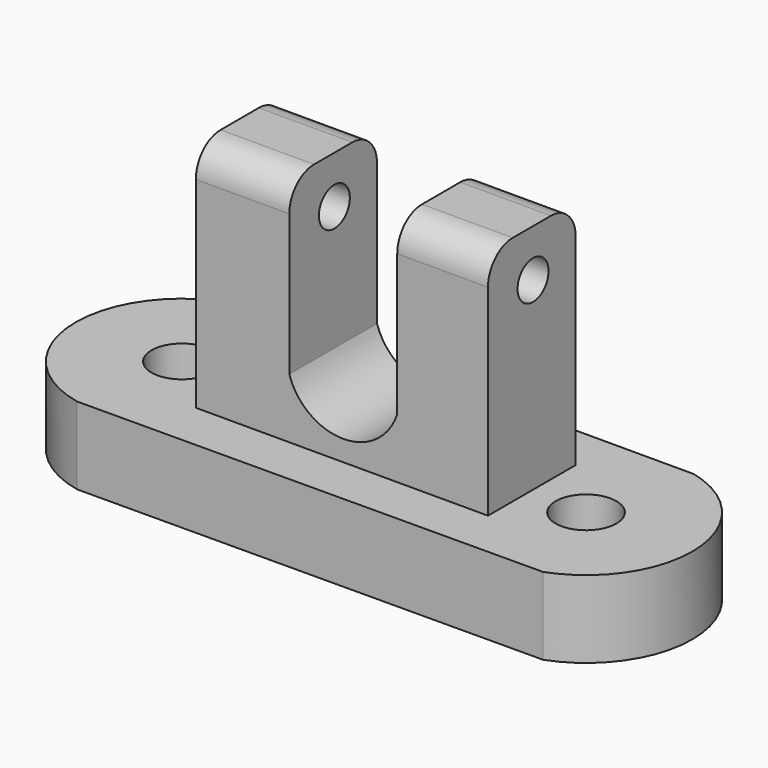
from build123d import *

# Parameters (mm, degrees)
F0_R     = 4.9836691613
F0_W     = 15.3446597978
F0_H     = 18.0084193125
F0_W_2   = 14.8993115872
F1_DEPTH = 12.7
F2_DEPTH = 50.8
F3_R     = 5.08
F6_D     = 6.35
F5_W     = 18.0084193125
F5_H     = 9.8407220423
F7_DEPTH = 17.78
F9_DEPTH = 25.4


with BuildPart() as f1:
    # F0 (on Top) → F1 (new body)
    with BuildSketch(Plane.XY):
        with BuildLine():
            Line((36.0745033145, 16.2670928985), (-40.1254966855, 16.2670928985))
            ThreePointArc((-40.1254966855, 16.2670928985), (-52.1476034559, -1.2861349798), (-38.2574259843, -17.4016501734))
            Line((-38.2574259843, -17.4016501734), (37.9416596259, -17.0283511457))
            ThreePointArc((37.9416596259, -17.0283511457), (49.3126119569, 0.3093896587), (36.0745033145, 16.2670928985))
        make_face()
        with Locations((31.8983709386, -0.6671736808)):
            Circle(F0_R, mode=Mode.SUBTRACT)
        with Locations((-34.7327866279, -0.3198943033)):
            Circle(F0_R, mode=Mode.SUBTRACT)
        with Locations((-17.6295996644, -0.2460409887)):
            Rectangle(F0_W, F0_H, mode=Mode.SUBTRACT)
        with Locations((15.2155896649, -0.2460409887)):
            Rectangle(F0_W_2, F0_H, mode=Mode.SUBTRACT)
        with Locations((-17.6295996644, -0.2460409887)):
            Rectangle(F0_W, F0_H)
        with Locations((15.2155896649, -0.2460409887)):
            Rectangle(F0_W_2, F0_H)
    extrude(amount=F1_DEPTH)

    # F0 (on Top) → F2 (join)
    with BuildSketch(Plane.XY):
        with Locations((-17.6295996644, -0.2460409887)):
            Rectangle(F0_W, F0_H)
        with Locations((15.2155896649, -0.2460409887)):
            Rectangle(F0_W_2, F0_H)
    extrude(amount=F2_DEPTH)

    # F3
    f3_edges = [f1.edges().sort_by_distance(p)[0] for p in [
        (-17.6296, -9.250251, 50.8),
        (-17.6296, 8.758169, 50.8),
        (15.21559, 8.758169, 50.8),
        (15.21559, -9.250251, 50.8),
    ]]
    fillet(f3_edges, radius=F3_R)

    # F6 (through all)
    with Locations(Plane(origin=(-25.3019295633, 0, 0), x_dir=(0, -1, 0), z_dir=(-1, 0, 0))):
        with Locations((0, 43.0034697056)):
            Hole(F6_D / 2)

    # F5 (on face) → F7 (join)
    with BuildSketch(Plane.YZ.offset(-9.9572697654)):
        with Locations((-0.2460409887, 17.6203610212)):
            Rectangle(F5_W, F5_H)
    extrude(amount=F7_DEPTH)

    # F8 (on face) → F9 (cut)
    with BuildSketch(Plane.XZ.offset(9.250250645)):
        with BuildLine():
            Line((7.7659338713, 22.5407220423), (-9.9572697654, 22.5407220423))
            ThreePointArc((-9.9572697654, 22.5407220423), (-1.0956679471, 16.072257104), (7.7659338713, 22.5407220423))
        make_face()
    extrude(amount=-F9_DEPTH, mode=Mode.SUBTRACT)


solid = f1.part
